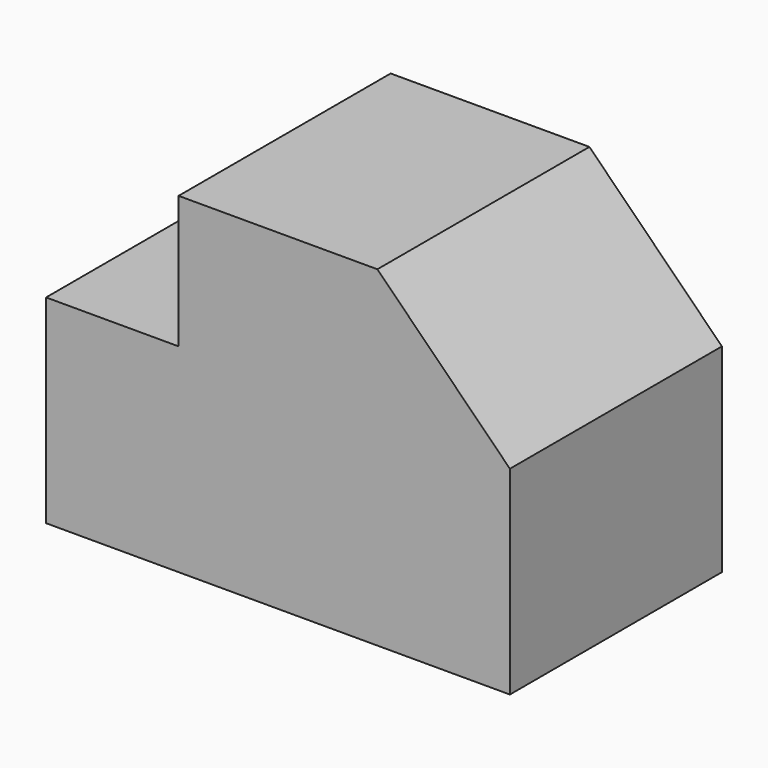
from build123d import *

# Parameters (mm, degrees)
F1_DEPTH = 25.4
F2_DEPTH = 25.4


with BuildPart() as f1:
    # F0 (on Front) → F1 (new body)
    with BuildSketch(Plane.XZ):
        Polygon((-47.912966, 0), (-47.912966, -38.1), (40.987034, -38.1), (40.987034, 0), (15.587034, 25.4), (-22.512966, 25.4), (-22.512966, 0), align=None)
    extrude(amount=F1_DEPTH)

    # F1_face (on face) → F2 (join)
    with BuildSketch(Plane(origin=(-1.565265, -25.4, -10.583333), x_dir=(1, 0, 0), z_dir=(0, -1, 0))):
        Polygon((17.152299, 35.983333), (-20.947701, 35.983333), (-20.947701, 10.583333), (-46.347701, 10.583333), (-46.347701, -27.516667), (42.552299, -27.516667), (42.552299, 10.583333), align=None)
    extrude(amount=F2_DEPTH)


solid = f1.part
